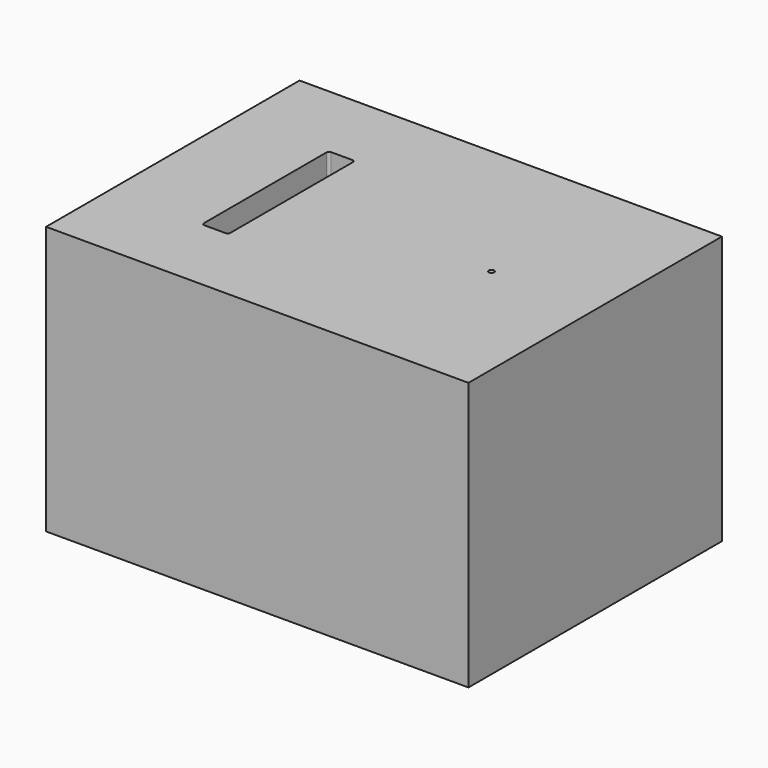
from build123d import *

# Parameters (mm, degrees)
F0_W     = 80
F0_H     = 60
F1_DEPTH = 50.8
F2_W     = 5
F2_H     = 30
F3_DEPTH = 40
F4_R     = 0.5
F5_R     = 0.505
F6_DEPTH = 45


with BuildPart() as f1:
    # F0 (on Top) → F1 (new body)
    with BuildSketch(Plane.XY):
        Rectangle(F0_W, F0_H)
    extrude(amount=F1_DEPTH)

    # F2 (on face) → F3 (cut)
    with BuildSketch(Plane.XY.offset(50.8)):
        with Locations((-20, 0)):
            Rectangle(F2_W, F2_H)
    extrude(amount=-F3_DEPTH, mode=Mode.SUBTRACT)

    # F4
    f4_edges = [f1.edges().sort_by_distance(p)[0] for p in [
        (-22.5, 15, 30.8),
        (-17.5, 15, 30.8),
        (-22.5, -15, 30.8),
        (-17.5, -15, 30.8),
    ]]
    fillet(f4_edges, radius=F4_R)

    # F5 (on face) → F6 (cut)
    with BuildSketch(Plane.XY.offset(50.8)):
        with Locations((20.357101, 0)):
            Circle(F5_R)
    extrude(amount=-F6_DEPTH, mode=Mode.SUBTRACT)


solid = f1.part
